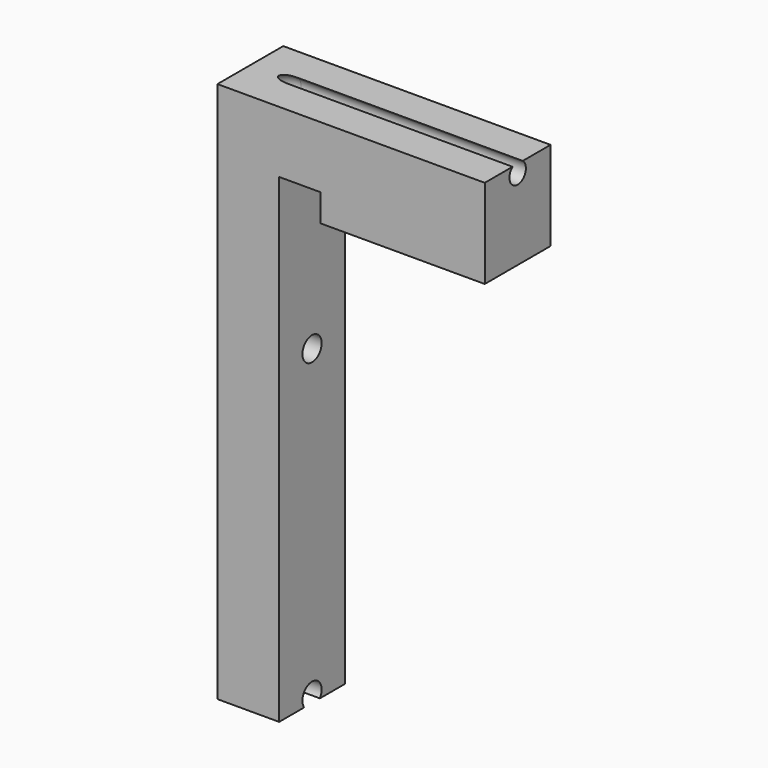
from build123d import *

# Parameters (mm, degrees)
F2_DEPTH = 6
F3_R     = 1.5
F6_R     = 1.75
F7_DEPTH = 9
F8_R     = 3.5
F9_DEPTH = 5


with BuildPart() as f2:
    # F1 (on Front) → F2 (new body, symmetric)
    with BuildSketch(Plane.XZ):
        Polygon((-9, 0), (0, 0), (0, 70), (6, 70), (6, 66), (30, 66), (30, 79), (-9, 79), align=None)
    extrude(amount=F2_DEPTH, both=True)

    # F5: sweep along a path in F4
    with BuildLine(Plane.XZ) as f5_path:
        Line((-7.8191634321, 0), (-7.8191634321, 72.8191634321))
        ThreePointArc((-7.8191634321, 72.8191634321), (-6.3546973381, 76.3546973381), (-2.8191634321, 77.8191634321))
        Line((-2.8191634321, 77.8191634321), (30, 77.8191634321))
    # F3 (on face) → F5 (sweep, cut)
    with BuildSketch(Plane(origin=(0, 0, 0), x_dir=(1, 0, 0), z_dir=(0, 0, -1))):
        with Locations((-7.8191634321, 0)):
            Circle(F3_R)
    sweep(path=f5_path.line, mode=Mode.SUBTRACT)

    # F6 (on face) → F7 (cut, through all)
    with BuildSketch(Plane(origin=(-9, 0, 0), x_dir=(0, -1, 0), z_dir=(-1, 0, 0))):
        with Locations((0, 45.5)):
            Circle(F6_R)
        with Locations((0, 1)):
            Circle(F6_R)
    extrude(amount=-F7_DEPTH, mode=Mode.SUBTRACT)

    # F8 (on face) → F9 (cut)
    with BuildSketch(Plane(origin=(-9, 0, 0), x_dir=(0, -1, 0), z_dir=(-1, 0, 0))):
        with Locations((0, 45.5)):
            Circle(F8_R)
        with Locations((0, 1)):
            Circle(F8_R)
    extrude(amount=-F9_DEPTH, mode=Mode.SUBTRACT)


solid = f2.part
